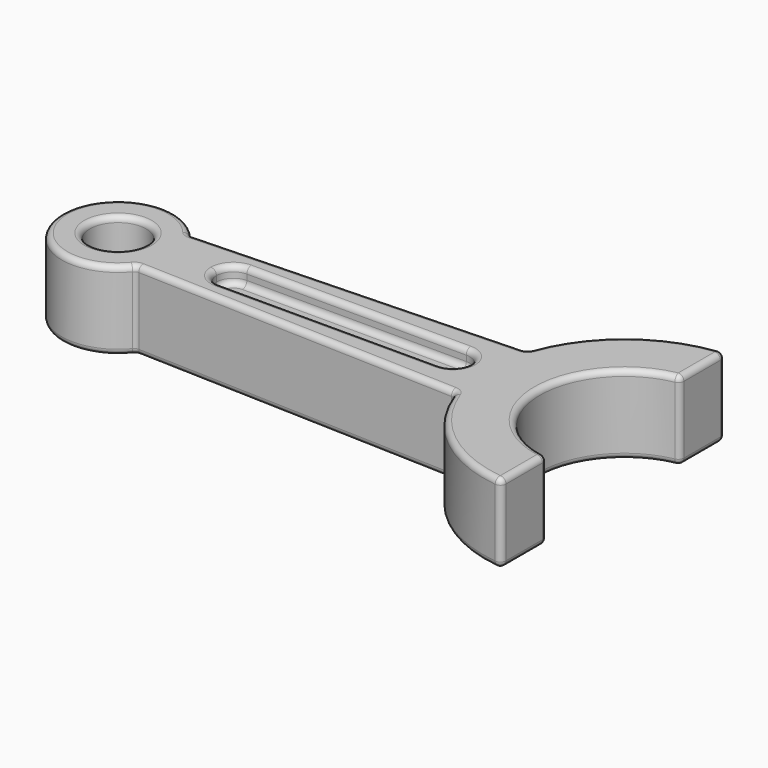
from build123d import *

# Parameters (mm, degrees)
F0_R     = 5
F1_DEPTH = 7
F2_R     = 5
F3_DEPTH = 3
F4_R     = 1


with BuildPart() as f1:
    # F0 (on Top) → F1 (new body)
    with BuildSketch(Plane.XY):
        with BuildLine():
            Line((66.314561, 8), (8, 6))
            ThreePointArc((8, 6), (-10, 0), (8, -6))
            Line((8, -6), (66.314561, -8))
            ThreePointArc((66.314561, -8), (74.62125, -19.710252), (88, -24.919872))
            Line((88, -24.919872), (88, -14.866069))
            ThreePointArc((88, -14.866069), (75, 0), (88, 14.866069))
            Line((88, 14.866069), (88, 24.919872))
            ThreePointArc((88, 24.919872), (74.62125, 19.710252), (66.314561, 8))
        make_face()
        Circle(F0_R, mode=Mode.SUBTRACT)
    extrude(amount=F1_DEPTH)

    # F2 (on face) → F3 (cut)
    with BuildSketch(Plane(origin=(0, 0, 0), x_dir=(1, 0, 0), z_dir=(0, 0, -1))):
        Circle(F2_R)
        with BuildLine():
            ThreePointArc((62.5, 0), (61.62132, 2.12132), (59.5, 3))
            Line((59.5, 3), (20.5, 3))
            ThreePointArc((20.5, 3), (18.37868, 2.12132), (17.5, 0))
            ThreePointArc((17.5, 0), (18.37868, -2.12132), (20.5, -3))
            Line((20.5, -3), (59.5, -3))
            ThreePointArc((59.5, -3), (61.62132, -2.12132), (62.5, 0))
        make_face()
    extrude(amount=-F3_DEPTH, mode=Mode.SUBTRACT)

    # F4
    f4_edges = [f1.edges().sort_by_distance(p)[0] for p in [
        (-10, 0, 0),
        (74.62125, 19.710252, 0),
        (74.62125, -19.710252, 0),
        (37.157281, -7, 0),
        (-5, 0, 0),
        (75, 0, 0),
        (37.157281, 7, 0),
        (40, 3, 0),
        (40, -3, 3),
        (40, -3, 0),
        (17.5, 0, 0),
        (88, 19.89297, 0),
        (66.314561, 8, 3.5),
        (8, 6, 3.5),
        (66.314561, -8, 3.5),
        (88, 14.866069, 3.5),
        (88, 24.919872, 3.5),
        (88, -19.89297, 0),
        (88, -14.866069, 3.5),
        (8, -6, 3.5),
        (88, -24.919872, 3.5),
        (20.5, 3, 1.5),
        (20.5, -3, 1.5),
        (17.5, 0, 3),
        (40, 3, 3),
        (62.5, 0, 0),
        (59.5, 3, 1.5),
        (62.5, 0, 3),
        (59.5, -3, 1.5),
    ]]
    fillet(f4_edges, radius=F4_R)

    # F5: F1 across face


with BuildPart() as f1_1:
    add(f1.part)
    add(f1.part.mirror(Plane(origin=(46.700254, 0, 7), x_dir=(1, 0, 0), z_dir=(0, 0, 1))))


solid = f1_1.part
